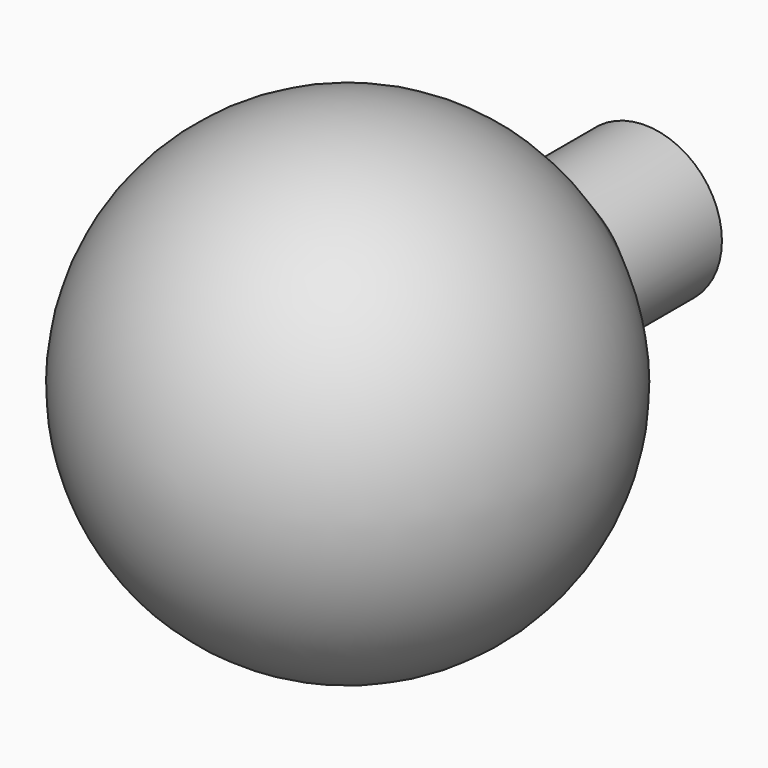
from build123d import *


with BuildPart() as f1:
    # F0 (on Top) → F1 (revolve)
    with BuildSketch(Plane.XY):
        with BuildLine():
            Line((0, 39.6875), (0, -39.6875))
            ThreePointArc((0, -39.6875), (36.74548, -14.995578), (27.767922, 28.355602))
            ThreePointArc((27.767922, 28.355602), (14.995578, 36.74548), (0, 39.6875))
        make_face()
        with BuildLine():
            ThreePointArc((0, 39.6875), (14.995578, 36.74548), (27.767922, 28.355602))
            Line((27.767922, 28.355602), (12.954, 42.8625))
            Line((12.954, 42.8625), (12.954, 62.616592))
            Line((12.954, 62.616592), (3.175, 68.2625))
            Line((3.175, 68.2625), (0, 68.2625))
            Line((0, 68.2625), (0, 39.6875))
        make_face()
    revolve(axis=Axis((0, 0, 0), (0, -1, 0)))


solid = f1.part
